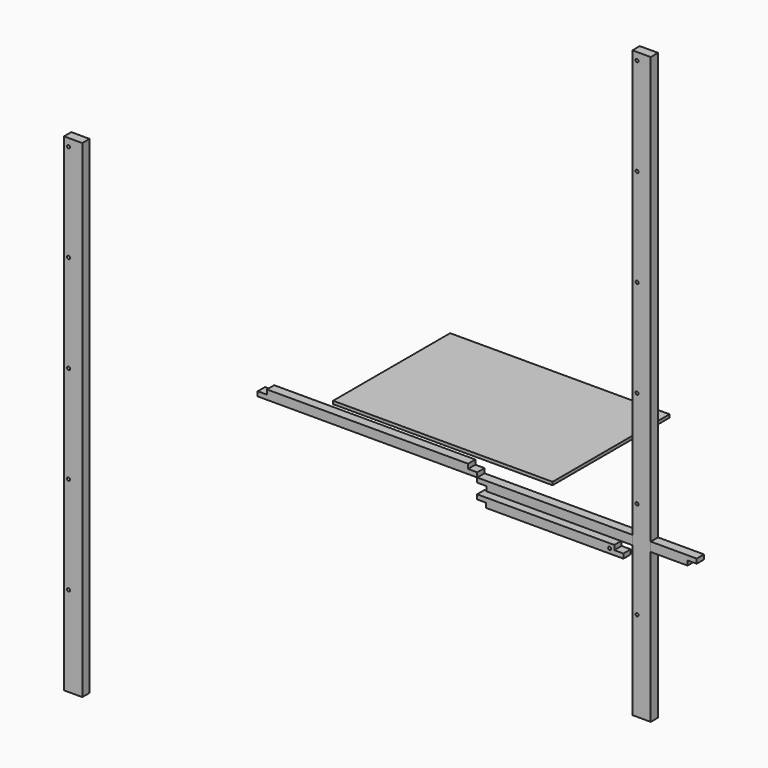
from build123d import *

# Parameters (mm, degrees)
F1_R      = 6.35
F2_DEPTH  = 38.1
F4_DEPTH  = 38.1
F5_ANGLE  = 180
F0_W      = 914.4
F0_H      = 609.6
F6_DEPTH  = 12.7
F7_W      = 76.2
F7_H      = 2438.4
F7_R      = 6.35
F8_DEPTH  = 38.1
F9_W      = 76.2
F9_H      = 2032
F9_R      = 6.35
F10_DEPTH = 38.1


with BuildPart() as f2:
    # F1 (on Front) → F2 (new body)
    with BuildSketch(Plane.XZ):
        Polygon((-132.931666, -92.969844), (-704.431666, -92.969844), (-704.431666, -112.019844), (-666.331666, -112.019844), (-666.331666, -131.069844), (-94.831666, -131.069844), (-94.831666, -112.019844), (-132.931666, -112.019844), align=None)
        with Locations((-151.981666, -112.019844)):
            Circle(F1_R, mode=Mode.SUBTRACT)
    extrude(amount=F2_DEPTH)


with BuildPart() as f4:
    # F3 (on Front) → F4 (new body)
    with BuildSketch(Plane.XZ):
        Polygon((210.551817, -31.356158), (-703.848183, -31.356158), (-703.848183, -50.406158), (-665.748183, -50.406158), (-665.748183, -69.456158), (172.451817, -69.456158), (172.451817, -50.406158), (210.551817, -50.406158), align=None)
    extrude(amount=F4_DEPTH)


with BuildPart() as f5_1:
    # F5: copy of F4
    add(f4.part.rotate(Axis((-703.848183, -19.05, -31.356158), (0, -1, 0)), F5_ANGLE))


with BuildPart() as f6:
    # F0 (on Top) → F6 (new body)
    with BuildSketch(Plane.XY):
        with Locations((-897.773528, 330.062248)):
            Rectangle(F0_W, F0_H)
    extrude(amount=F6_DEPTH)


with BuildPart() as f8:
    # F7 (on Front) → F8 (new body)
    with BuildSketch(Plane.XZ):
        with Locations((-19.006623, 526.542024)):
            Rectangle(F7_W, F7_H)
        with Locations((-38.056623, -318.007976)):
            Circle(F7_R, mode=Mode.SUBTRACT)
        with Locations((-38.056623, 88.392024)):
            Circle(F7_R, mode=Mode.SUBTRACT)
        with Locations((-38.056623, 494.792024)):
            Circle(F7_R, mode=Mode.SUBTRACT)
        with Locations((-38.056623, 901.192024)):
            Circle(F7_R, mode=Mode.SUBTRACT)
        with Locations((-38.056623, 1307.592024)):
            Circle(F7_R, mode=Mode.SUBTRACT)
        with Locations((-38.056623, 1713.992024)):
            Circle(F7_R, mode=Mode.SUBTRACT)
    extrude(amount=F8_DEPTH)


with BuildPart() as f10:
    # F9 (on Front) → F10 (new body)
    with BuildSketch(Plane.XZ):
        with Locations((-2387.303439, -355.90525)):
            Rectangle(F9_W, F9_H)
        with Locations((-2406.353439, -997.25525)):
            Circle(F9_R, mode=Mode.SUBTRACT)
        with Locations((-2406.353439, -590.85525)):
            Circle(F9_R, mode=Mode.SUBTRACT)
        with Locations((-2406.353439, -184.45525)):
            Circle(F9_R, mode=Mode.SUBTRACT)
        with Locations((-2406.353439, 221.94475)):
            Circle(F9_R, mode=Mode.SUBTRACT)
        with Locations((-2406.353439, 628.34475)):
            Circle(F9_R, mode=Mode.SUBTRACT)
    extrude(amount=F10_DEPTH)


solid = Compound([f2.part, f4.part, f5_1.part, f6.part, f8.part, f10.part])
